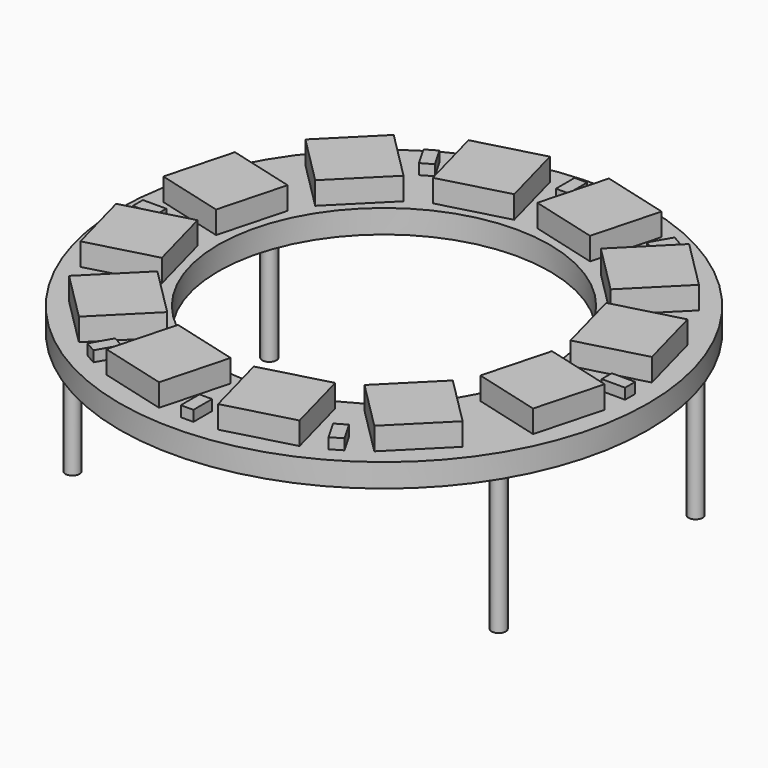
from build123d import *

# Parameters (mm, degrees)
F0_R     = 18.65
F0_R_2   = 11.7
F1_DEPTH = 1.65
F3_DEPTH = 1.59
F5_DEPTH = 0.75
F6_R     = 0.5
F7_DEPTH = 10


with BuildPart() as f1:
    # F0 (on Top) → F1 (new body)
    with BuildSketch(Plane.XY):
        Circle(F0_R)
        Circle(F0_R_2, mode=Mode.SUBTRACT)
    extrude(amount=F1_DEPTH)

    # F2 (on face) → F3 (join)
    with BuildSketch(Plane.XY.offset(1.65)):
        Polygon((6.8182058502, 15.9798175517), (4.4516875758, 16.6139242122), (2.0851693014, 17.2480308727), (0.8169559804, 12.5149943239), (3.1834742548, 11.8808876634), (5.5499925292, 11.2467810029), align=None)
        Polygon((-6.8182058502, 15.9798175517), (-5.5499925292, 11.2467810029), (-3.1834742548, 11.8808876634), (-0.8169559804, 12.5149943239), (-2.0851693014, 17.2480308727), (-4.4516875758, 16.6139242122), align=None)
        Polygon((-13.8946482503, 10.4298250225), (-10.4298250225, 6.9650017947), (-8.6974134086, 8.6974134086), (-6.9650017947, 10.4298250225), (-10.4298250225, 13.8946482503), (-12.1622366364, 12.1622366364), align=None)
        Polygon((-17.2480308727, 2.0851693014), (-12.5149943239, 0.8169559804), (-11.8808876634, 3.1834742548), (-11.2467810029, 5.5499925292), (-15.9798175517, 6.8182058502), (-16.6139242122, 4.4516875758), align=None)
        Polygon((-15.9798175517, -6.8182058502), (-11.2467810029, -5.5499925292), (-11.8808876634, -3.1834742548), (-12.5149943239, -0.8169559804), (-17.2480308727, -2.0851693014), (-16.6139242122, -4.4516875758), align=None)
        Polygon((-10.4298250225, -13.8946482503), (-6.9650017947, -10.4298250225), (-8.6974134086, -8.6974134086), (-10.4298250225, -6.9650017947), (-13.8946482503, -10.4298250225), (-12.1622366364, -12.1622366364), align=None)
        Polygon((-2.0851693014, -17.2480308727), (-0.8169559804, -12.5149943239), (-3.1834742548, -11.8808876634), (-5.5499925292, -11.2467810029), (-6.8182058502, -15.9798175517), (-4.4516875758, -16.6139242122), align=None)
        Polygon((6.8182058502, -15.9798175517), (5.5499925292, -11.2467810029), (3.1834742548, -11.8808876634), (0.8169559804, -12.5149943239), (2.0851693014, -17.2480308727), (4.4516875758, -16.6139242122), align=None)
        Polygon((13.8946482503, -10.4298250225), (10.4298250225, -6.9650017947), (8.6974134086, -8.6974134086), (6.9650017947, -10.4298250225), (10.4298250225, -13.8946482503), (12.1622366364, -12.1622366364), align=None)
        Polygon((17.2480308727, -2.0851693014), (12.5149943239, -0.8169559804), (11.8808876634, -3.1834742548), (11.2467810029, -5.5499925292), (15.9798175517, -6.8182058502), (16.6139242122, -4.4516875758), align=None)
        Polygon((15.9798175517, 6.8182058502), (11.2467810029, 5.5499925292), (11.8808876634, 3.1834742548), (12.5149943239, 0.8169559804), (17.2480308727, 2.0851693014), (16.6139242122, 4.4516875758), align=None)
        Polygon((10.4298250225, 13.8946482503), (6.9650017947, 10.4298250225), (8.6974134086, 8.6974134086), (10.4298250225, 6.9650017947), (13.8946482503, 10.4298250225), (12.1622366364, 12.1622366364), align=None)
    extrude(amount=F3_DEPTH)

    # F4 (on face) → F5 (join)
    with BuildSketch(Plane.XY.offset(1.65)):
        Polygon((0.445, 17.38), (0, 17.38), (-0.445, 17.38), (-0.445, 15.73), (0, 15.73), (0.445, 15.73), align=None)
        Polygon((9.0753813047, 14.8290215178), (8.69, 15.0515215178), (8.3046186953, 15.2740215178), (7.4796186953, 13.8450796015), (7.865, 13.6225796015), (8.2503813047, 13.4000796015), align=None)
        Polygon((17.38, 0), (17.38, 0.445), (15.73, 0.445), (15.73, 0), (15.73, -0.445), (17.38, -0.445), align=None)
        Polygon((-15.73, 0.445), (-17.38, 0.445), (-17.38, 0), (-17.38, -0.445), (-15.73, -0.445), (-15.73, 0), align=None)
        Polygon((-7.4796186953, 13.8450796015), (-8.3046186953, 15.2740215178), (-8.69, 15.0515215178), (-9.0753813047, 14.8290215178), (-8.2503813047, 13.4000796015), (-7.865, 13.6225796015), align=None)
        Polygon((-8.2503813047, -13.4000796015), (-9.0753813047, -14.8290215178), (-8.69, -15.0515215178), (-8.3046186953, -15.2740215178), (-7.4796186953, -13.8450796015), (-7.865, -13.6225796015), align=None)
        Polygon((-0.445, -17.38), (0, -17.38), (0.445, -17.38), (0.445, -15.73), (0, -15.73), (-0.445, -15.73), align=None)
        Polygon((8.3046186953, -15.2740215178), (8.69, -15.0515215178), (9.0753813047, -14.8290215178), (8.2503813047, -13.4000796015), (7.865, -13.6225796015), (7.4796186953, -13.8450796015), align=None)
    extrude(amount=F5_DEPTH)

    # F6 (on face) → F7 (join)
    with BuildSketch(Plane(origin=(0, 0, 0), x_dir=(1, 0, 0), z_dir=(0, 0, -1))):
        with Locations((-15.0515215178, 8.69)):
            Circle(F6_R)
        with Locations((-15.0515215178, -8.69)):
            Circle(F6_R)
        with Locations((15.0515215178, -8.69)):
            Circle(F6_R)
        with Locations((15.0515215178, 8.69)):
            Circle(F6_R)
    extrude(amount=F7_DEPTH)


solid = f1.part
